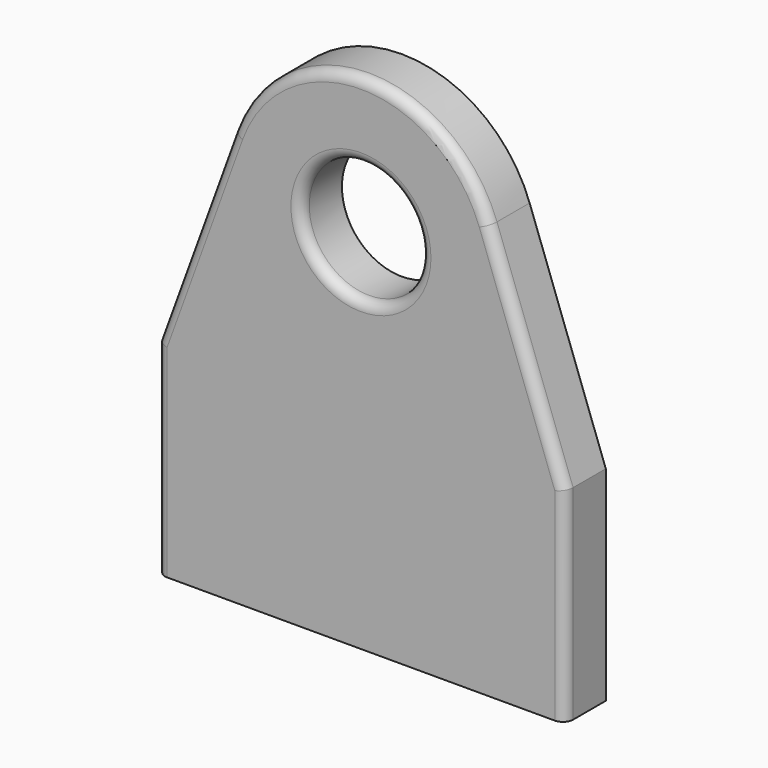
from build123d import *

# Parameters (mm, degrees)
F0_R     = 29.325687
F1_DEPTH = 25
F2_R     = 5
F3_R     = 5


with BuildPart() as f1:
    # F0 (on Front) → F1 (new body)
    with BuildSketch(Plane.XZ):
        with BuildLine():
            Line((-100, 58.738521), (-100, -41.422263))
            Line((-100, -41.422263), (100, -41.422263))
            Line((100, -41.422263), (100, 58.738521))
            Line((100, 58.738521), (62.691501, 161.250998))
            ThreePointArc((62.691501, 161.250998), (0, 205.149263), (-62.691501, 161.250998))
            Line((-62.691501, 161.250998), (-100, 58.738521))
        make_face()
        with Locations((0, 138.434987)):
            Circle(F0_R, mode=Mode.SUBTRACT)
    extrude(amount=F1_DEPTH)

    # F2
    f2_edges = [f1.edges().sort_by_distance(p)[0] for p in [
        (-29.325687, -25, 138.434987),
    ]]
    fillet(f2_edges, radius=F2_R)

    # F3
    f3_edges = [f1.edges().sort_by_distance(p)[0] for p in [
        (-100, -25, 8.658129),
        (-81.34575, -25, 109.994759),
        (0, -25, 205.149263),
        (100, -25, 8.658129),
        (81.34575, -25, 109.994759),
    ]]
    fillet(f3_edges, radius=F3_R)


solid = f1.part
